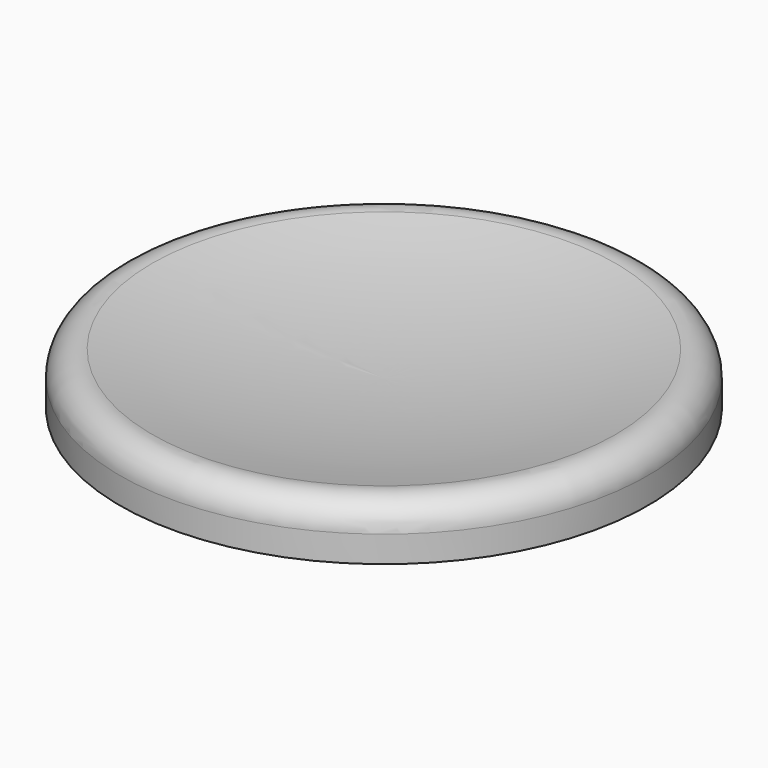
from build123d import *


with BuildPart() as f2:
    # F0 (on Front) → F2 (revolve)
    with BuildSketch(Plane.XZ):
        with BuildLine():
            Line((-10, 2.5), (-3.5, 2.5))
            Line((-3.5, 2.5), (-2.5, 2.5))
            Line((-2.5, 2.5), (-2.5, 2))
            Line((-2.5, 2), (-1.5, 2))
            Line((-1.5, 2), (-1.5, 0.75))
            Line((-1.5, 0.75), (0, 0.75))
            Line((0, 0.75), (0, 3.5))
            ThreePointArc((0, 3.5), (-4.417261, 3.744651), (-8.780488, 4.47561))
            ThreePointArc((-8.780488, 4.47561), (-9.624695, 4.280869), (-10, 3.5))
            Line((-10, 3.5), (-10, 2.5))
        make_face()
    revolve(axis=Axis((0, 0, 5.189829), (0, 0, 1)))


solid = f2.part
